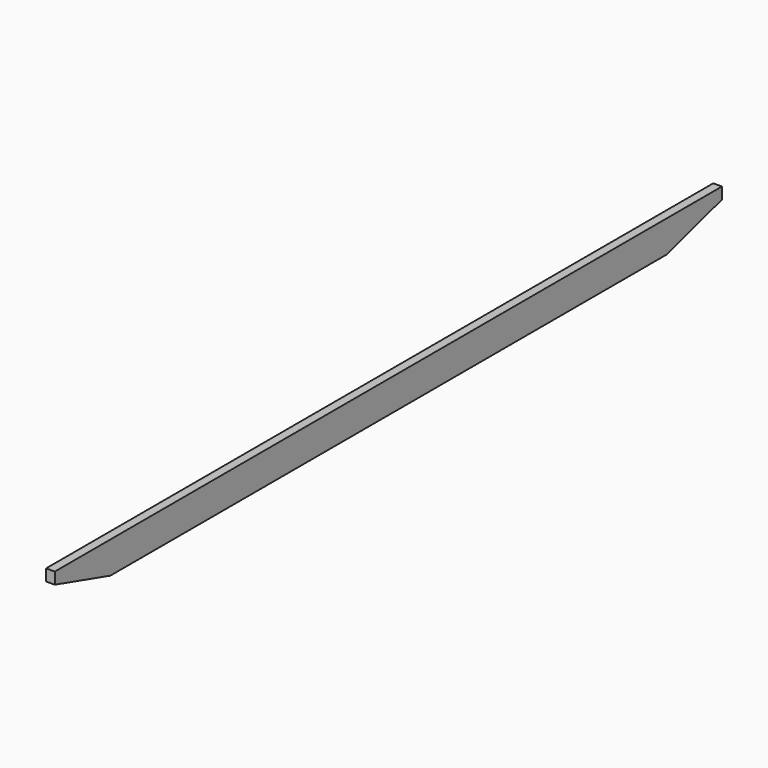
from build123d import *

# Parameters (mm, degrees)
F0_W     = 38.1
F0_H     = 139.7
F1_DEPTH = 3657.6
F3_DEPTH = 38.101


with BuildPart() as f1:
    # F0 (on Front) → F1 (new body)
    with BuildSketch(Plane.XZ):
        with Locations((19.05, 69.85)):
            Rectangle(F0_W, F0_H)
    extrude(amount=F1_DEPTH)

    # F2 (on face) → F3 (cut, through all)
    with BuildSketch(Plane.YZ.offset(38.1)):
        Polygon((-3657.6, 88.9), (-3657.6, 0), (-3352.8, 0), align=None)
        Polygon((0, 88.9), (-304.8, 0), (0, 0), align=None)
    extrude(amount=-F3_DEPTH, mode=Mode.SUBTRACT)


solid = f1.part
